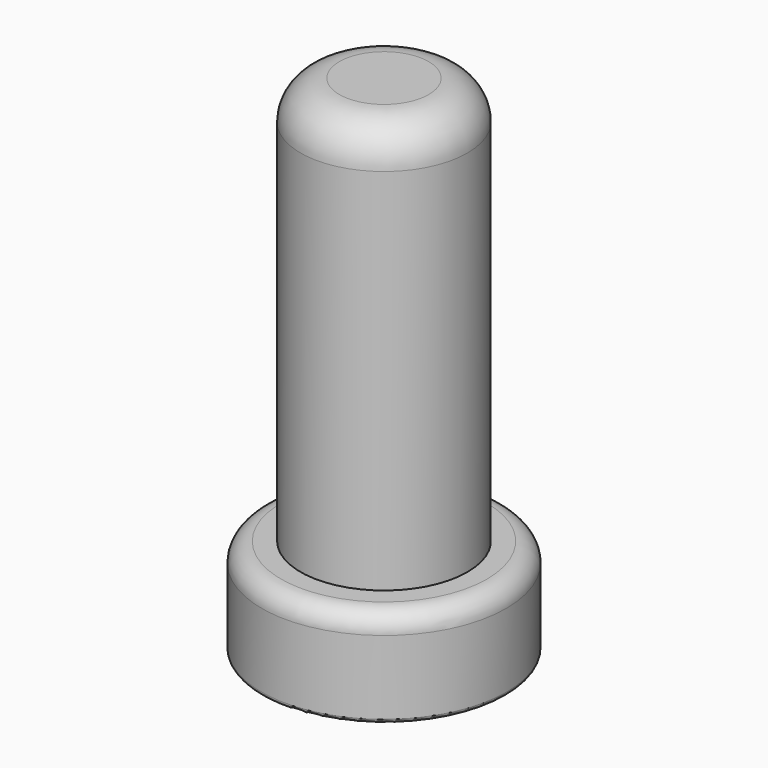
from build123d import *

# Parameters (mm, degrees)
F0_W = 7.5
F0_H = 85


with BuildPart() as f1:
    # F0 (on Front) → F1 (revolve)
    with BuildSketch(Plane.XZ):
        with Locations((17.75, 67.5)):
            Rectangle(F0_W, F0_H)
        with BuildLine():
            ThreePointArc((14, 3), (14.87868, 0.87868), (17, 0))
            Line((17, 0), (30.5, 0))
            ThreePointArc((30.5, 0), (31.207107, 0.292893), (31.5, 1))
            Line((31.5, 1), (31.5, 20))
            ThreePointArc((31.5, 20), (30.035534, 23.535534), (26.5, 25))
            Line((26.5, 25), (21.5, 25))
            Line((21.5, 25), (14, 25))
            Line((14, 25), (14, 3))
        make_face()
        with BuildLine():
            Line((0, 110), (14, 110))
            Line((14, 110), (21.5, 110))
            Line((21.5, 110), (21.5, 120))
            ThreePointArc((21.5, 120), (18.571068, 127.071068), (11.5, 130))
            Line((11.5, 130), (0, 130))
            Line((0, 130), (0, 110))
        make_face()
    revolve(axis=Axis((0, 0, 120), (0, 0, 1)))


solid = f1.part
